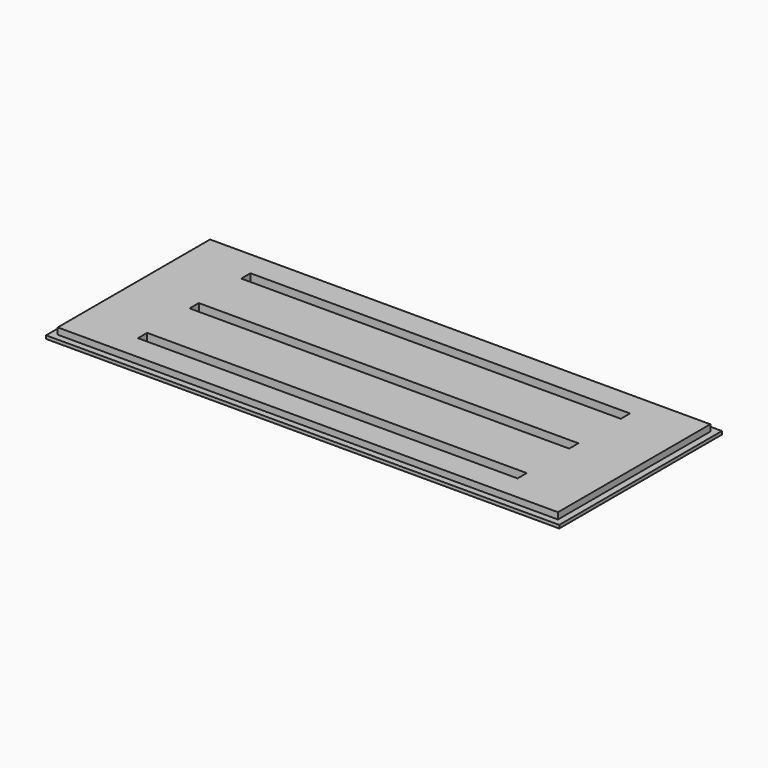
from build123d import *

# Parameters (mm, degrees)
F0_W     = 79.5
F0_H     = 31.5
F0_W_2   = 77.5
F0_H_2   = 29.5
F0_W_3   = 58.807618
F0_H_3   = 1.786274
F1_DEPTH = 0.5
F2_DEPTH = 1


with BuildPart() as f1:
    # F0 (on Top) → F1 (new body)
    with BuildSketch(Plane.XY):
        Rectangle(F0_W, F0_H)
        Rectangle(F0_W_2, F0_H_2, mode=Mode.SUBTRACT)
        Rectangle(F0_W_2, F0_H_2)
        with Locations((0, -10)):
            Rectangle(F0_W_3, F0_H_3, mode=Mode.SUBTRACT)
        Rectangle(F0_W_3, F0_H_3, mode=Mode.SUBTRACT)
        with Locations((0, 10)):
            Rectangle(F0_W_3, F0_H_3, mode=Mode.SUBTRACT)
    extrude(amount=-F1_DEPTH)

    # F0 (on Top) → F2 (join)
    with BuildSketch(Plane.XY):
        Rectangle(F0_W_2, F0_H_2)
        with Locations((0, -10)):
            Rectangle(F0_W_3, F0_H_3, mode=Mode.SUBTRACT)
        Rectangle(F0_W_3, F0_H_3, mode=Mode.SUBTRACT)
        with Locations((0, 10)):
            Rectangle(F0_W_3, F0_H_3, mode=Mode.SUBTRACT)
    extrude(amount=F2_DEPTH)


solid = f1.part
